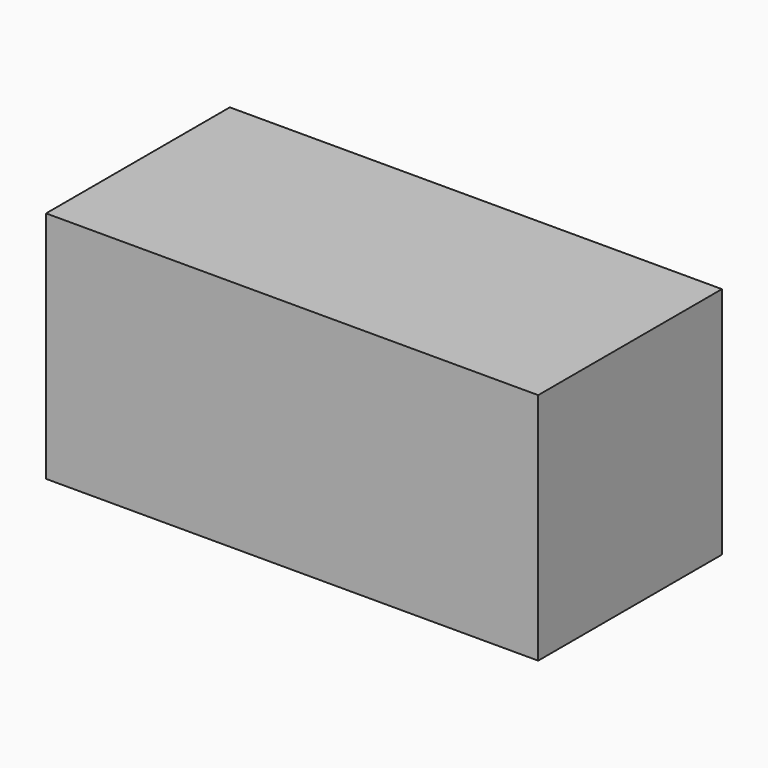
from build123d import *

# Parameters (mm, degrees)
F0_W      = 1500
F0_H      = 700
F1_DEPTH  = 1400
F1_FACE_W = 3000
F1_FACE_H = 1400
F2_DEPTH  = 25


with BuildPart() as f1:
    # F0 (on Top) → F1 (new body)
    with BuildSketch(Plane.XY):
        Polygon((0, 700), (0, 0), (-1500, 0), (-1500, -700), (1500, -700), (1500, 700), align=None)
        with Locations((-750, 350)):
            Rectangle(F0_W, F0_H)
    extrude(amount=F1_DEPTH)

    # F1_face (on face) → F2 (join)
    with BuildSketch(Plane(origin=(0, 0, 0), x_dir=(1, 0, 0), z_dir=(0, 0, -1))):
        Rectangle(F1_FACE_W, F1_FACE_H)
    extrude(amount=F2_DEPTH)


solid = f1.part
